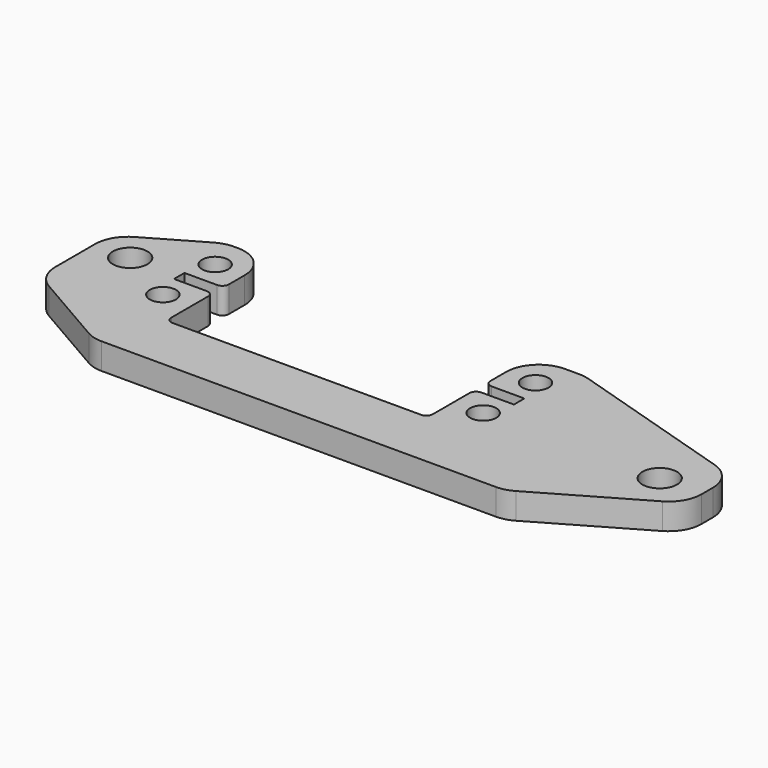
from build123d import *

# Parameters (mm, degrees)
SKETCH005_R   = 2
SKETCH005_R_2 = 2.65
PAD_DEPTH     = 4
FILLET_R      = 5
FILLET001_R   = 1
FILLET002_R   = 1


with BuildPart() as part:
    # Sketch005 → Pad (new body)
    with BuildSketch(Plane.XY.offset(-3)):
        Polygon((-38, 10), (-31, 10), (-31, 1), (-37, 1), (-37, -1), (-31, -1), (-31, -10), (9, -10), (9, -1), (15, -1), (15, 1), (9, 1), (9, 10), (17, 10), (47, 0.7), (47, -8.030345), (28, -19), (-35, -19), (-50, -10.339746), (-50, 3.07), align=None)
        with Locations((-35.5, 5)):
            Circle(SKETCH005_R, mode=Mode.SUBTRACT)
        with Locations((-35.5, -5)):
            Circle(SKETCH005_R, mode=Mode.SUBTRACT)
        with Locations((13.5, 5)):
            Circle(SKETCH005_R, mode=Mode.SUBTRACT)
        with Locations((13.5, -5)):
            Circle(SKETCH005_R, mode=Mode.SUBTRACT)
        with Locations((-44.5, 0)):
            Circle(SKETCH005_R_2, mode=Mode.SUBTRACT)
        with Locations((40.5, -5)):
            Circle(SKETCH005_R_2, mode=Mode.SUBTRACT)
    extrude(amount=PAD_DEPTH)

    # Fillet
    fillet_edges = [part.edges().sort_by_distance(p)[0] for p in [
        (28, -19, -1),
        (47, -8.030345, -1),
        (-35, -19, -1),
        (-50, -10.339746, -1),
        (-50, 3.07, -1),
        (-38, 10, -1),
        (47, 0.7, -1),
        (17, 10, -1),
        (-31, 10, -1),
        (9, 10, -1),
    ]]
    fillet(fillet_edges, radius=FILLET_R)

    # Fillet001
    fillet001_edges = [part.edges().sort_by_distance(p)[0] for p in [
        (-31, -10, -1),
        (9, -10, -1),
    ]]
    fillet(fillet001_edges, radius=FILLET001_R)

    # Fillet002
    fillet002_edges = [part.edges().sort_by_distance(p)[0] for p in [
        (-31, -1, -1),
        (-31, 1, -1),
        (9, 1, -1),
        (9, -1, -1),
    ]]
    fillet(fillet002_edges, radius=FILLET002_R)


solid = part.part
